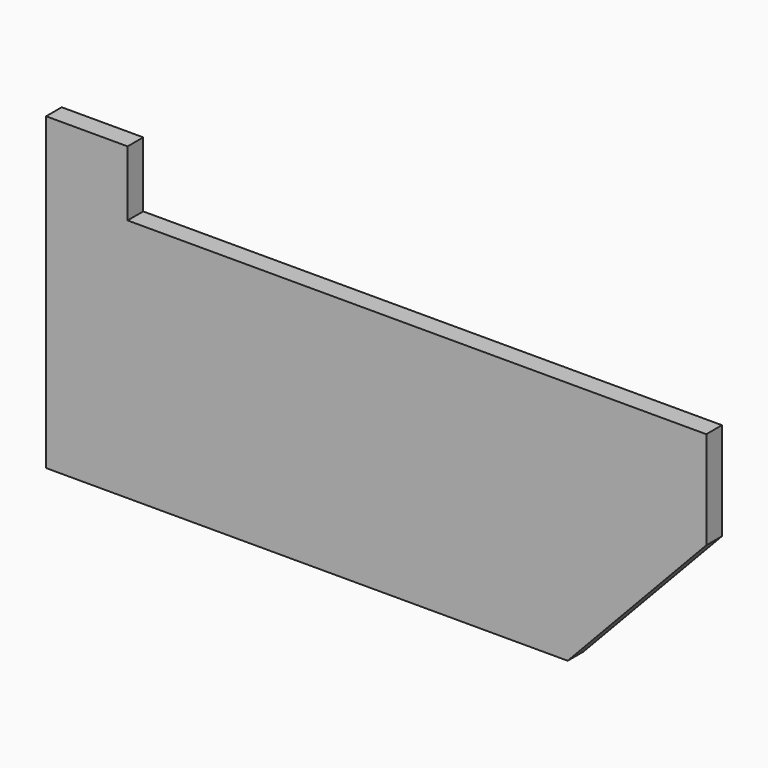
from build123d import *

# Parameters (mm, degrees)
F0_W     = 50
F0_H     = 40
F1_DEPTH = 12


with BuildPart() as f1:
    # F0 (on Front) → F1 (new body)
    with BuildSketch(Plane.XZ):
        with Locations((-177.5, 95)):
            Rectangle(F0_W, F0_H)
        Polygon((-152.5, 75), (-202.5, 75), (-202.5, -75), (117.5, -75), (202.5, 15), (202.5, 75), align=None)
    extrude(amount=F1_DEPTH)


solid = f1.part
